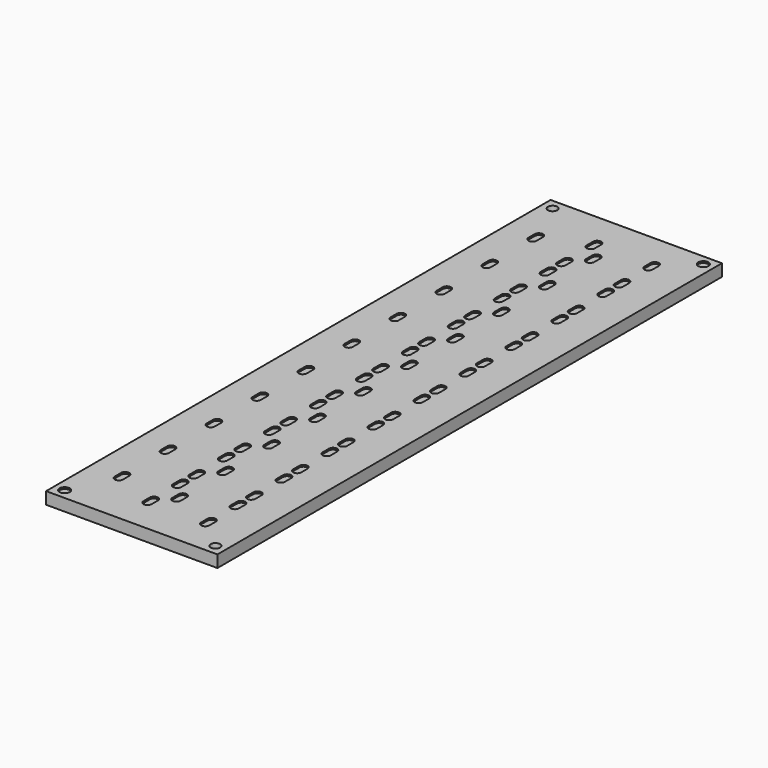
from build123d import *

# Parameters (mm, degrees)
F0_W     = 49.8404
F0_H     = 183.4444
F0_R     = 1.5
F0_R_2   = 1.375
F1_DEPTH = 0.5
F2_W     = 49.8404
F2_H     = 183.4444
F2_R     = 1.375
F3_DEPTH = 3


with BuildPart() as f1:
    # F0 (on Top) → F1 (new body)
    with BuildSketch(Plane.XY):
        with Locations((21.9202, 88.7222)):
            Rectangle(F0_W, F0_H)
        Circle(F0_R, mode=Mode.SUBTRACT)
        with BuildLine():
            ThreePointArc((7.066025, 12.3623), (5.8754, 11.171675), (4.684775, 12.3623))
            Line((4.684775, 12.3623), (4.684775, 14.6623))
            ThreePointArc((4.684775, 14.6623), (5.8754, 15.852925), (7.066025, 14.6623))
            Line((7.066025, 14.6623), (7.066025, 12.3623))
        make_face(mode=Mode.SUBTRACT)
        with BuildLine():
            Line((7.066025, 31.3756), (7.066025, 29.0756))
            ThreePointArc((7.066025, 29.0756), (5.8754, 27.884975), (4.684775, 29.0756))
            Line((4.684775, 29.0756), (4.684775, 31.3756))
            ThreePointArc((4.684775, 31.3756), (5.8754, 32.566225), (7.066025, 31.3756))
        make_face(mode=Mode.SUBTRACT)
        with BuildLine():
            Line((19.732625, 9.2855), (19.732625, 6.9855))
            ThreePointArc((19.732625, 6.9855), (18.542, 5.794875), (17.351375, 6.9855))
            Line((17.351375, 6.9855), (17.351375, 9.2855))
            ThreePointArc((17.351375, 9.2855), (18.542, 10.476125), (19.732625, 9.2855))
        make_face(mode=Mode.SUBTRACT)
        with BuildLine():
            Line((19.732625, 20.0391), (19.732625, 17.7391))
            ThreePointArc((19.732625, 17.7391), (18.542, 16.548475), (17.351375, 17.7391))
            Line((17.351375, 17.7391), (17.351375, 20.0391))
            ThreePointArc((17.351375, 20.0391), (18.542, 21.229725), (19.732625, 20.0391))
        make_face(mode=Mode.SUBTRACT)
        with BuildLine():
            ThreePointArc((19.732625, 23.6988), (18.542, 22.508175), (17.351375, 23.6988))
            Line((17.351375, 23.6988), (17.351375, 25.9988))
            ThreePointArc((17.351375, 25.9988), (18.542, 27.189425), (19.732625, 25.9988))
            Line((19.732625, 25.9988), (19.732625, 23.6988))
        make_face(mode=Mode.SUBTRACT)
        with BuildLine():
            Line((19.732625, 36.7524), (19.732625, 34.4524))
            ThreePointArc((19.732625, 34.4524), (18.542, 33.261775), (17.351375, 34.4524))
            Line((17.351375, 34.4524), (17.351375, 36.7524))
            ThreePointArc((17.351375, 36.7524), (18.542, 37.943025), (19.732625, 36.7524))
        make_face(mode=Mode.SUBTRACT)
        with BuildLine():
            ThreePointArc((19.732625, 40.4121), (18.542, 39.221475), (17.351375, 40.4121))
            Line((17.351375, 40.4121), (17.351375, 42.7121))
            ThreePointArc((17.351375, 42.7121), (18.542, 43.902725), (19.732625, 42.7121))
            Line((19.732625, 42.7121), (19.732625, 40.4121))
        make_face(mode=Mode.SUBTRACT)
        with BuildLine():
            ThreePointArc((7.066025, 45.7889), (5.8754, 44.598275), (4.684775, 45.7889))
            Line((4.684775, 45.7889), (4.684775, 48.0889))
            ThreePointArc((4.684775, 48.0889), (5.8754, 49.279525), (7.066025, 48.0889))
            Line((7.066025, 48.0889), (7.066025, 45.7889))
        make_face(mode=Mode.SUBTRACT)
        with BuildLine():
            ThreePointArc((4.684775, 64.8022), (5.8754, 65.992825), (7.066025, 64.8022))
            Line((7.066025, 64.8022), (7.066025, 62.5022))
            ThreePointArc((7.066025, 62.5022), (5.8754, 61.311575), (4.684775, 62.5022))
            Line((4.684775, 62.5022), (4.684775, 64.8022))
        make_face(mode=Mode.SUBTRACT)
        with BuildLine():
            ThreePointArc((7.066025, 79.2155), (5.8754, 78.024875), (4.684775, 79.2155))
            Line((4.684775, 79.2155), (4.684775, 81.5155))
            ThreePointArc((4.684775, 81.5155), (5.8754, 82.706125), (7.066025, 81.5155))
            Line((7.066025, 81.5155), (7.066025, 79.2155))
        make_face(mode=Mode.SUBTRACT)
        with BuildLine():
            ThreePointArc((17.351375, 53.4657), (18.542, 54.656325), (19.732625, 53.4657))
            Line((19.732625, 53.4657), (19.732625, 51.1657))
            ThreePointArc((19.732625, 51.1657), (18.542, 49.975075), (17.351375, 51.1657))
            Line((17.351375, 51.1657), (17.351375, 53.4657))
        make_face(mode=Mode.SUBTRACT)
        with BuildLine():
            ThreePointArc((17.351375, 59.4254), (18.542, 60.616025), (19.732625, 59.4254))
            Line((19.732625, 59.4254), (19.732625, 57.1254))
            ThreePointArc((19.732625, 57.1254), (18.542, 55.934775), (17.351375, 57.1254))
            Line((17.351375, 57.1254), (17.351375, 59.4254))
        make_face(mode=Mode.SUBTRACT)
        with BuildLine():
            ThreePointArc((17.351375, 70.179), (18.542, 71.369625), (19.732625, 70.179))
            Line((19.732625, 70.179), (19.732625, 67.879))
            ThreePointArc((19.732625, 67.879), (18.542, 66.688375), (17.351375, 67.879))
            Line((17.351375, 67.879), (17.351375, 70.179))
        make_face(mode=Mode.SUBTRACT)
        with BuildLine():
            ThreePointArc((19.732625, 73.8387), (18.542, 72.648075), (17.351375, 73.8387))
            Line((17.351375, 73.8387), (17.351375, 76.1387))
            ThreePointArc((17.351375, 76.1387), (18.542, 77.329325), (19.732625, 76.1387))
            Line((19.732625, 76.1387), (19.732625, 73.8387))
        make_face(mode=Mode.SUBTRACT)
        with BuildLine():
            ThreePointArc((19.732625, 84.5923), (18.542, 83.401675), (17.351375, 84.5923))
            Line((17.351375, 84.5923), (17.351375, 86.8923))
            ThreePointArc((17.351375, 86.8923), (18.542, 88.082925), (19.732625, 86.8923))
            Line((19.732625, 86.8923), (19.732625, 84.5923))
        make_face(mode=Mode.SUBTRACT)
        with BuildLine():
            ThreePointArc((23.830025, 12.3623), (22.6394, 11.171675), (21.448775, 12.3623))
            Line((21.448775, 12.3623), (21.448775, 14.6623))
            ThreePointArc((21.448775, 14.6623), (22.6394, 15.852925), (23.830025, 14.6623))
            Line((23.830025, 14.6623), (23.830025, 12.3623))
        make_face(mode=Mode.SUBTRACT)
        with BuildLine():
            Line((23.830025, 31.3756), (23.830025, 29.0756))
            ThreePointArc((23.830025, 29.0756), (22.6394, 27.884975), (21.448775, 29.0756))
            Line((21.448775, 29.0756), (21.448775, 31.3756))
            ThreePointArc((21.448775, 31.3756), (22.6394, 32.566225), (23.830025, 31.3756))
        make_face(mode=Mode.SUBTRACT)
        with BuildLine():
            Line((36.496625, 9.2855), (36.496625, 6.9855))
            ThreePointArc((36.496625, 6.9855), (35.306, 5.794875), (34.115375, 6.9855))
            Line((34.115375, 6.9855), (34.115375, 9.2855))
            ThreePointArc((34.115375, 9.2855), (35.306, 10.476125), (36.496625, 9.2855))
        make_face(mode=Mode.SUBTRACT)
        with BuildLine():
            Line((36.496625, 20.0391), (36.496625, 17.7391))
            ThreePointArc((36.496625, 17.7391), (35.306, 16.548475), (34.115375, 17.7391))
            Line((34.115375, 17.7391), (34.115375, 20.0391))
            ThreePointArc((34.115375, 20.0391), (35.306, 21.229725), (36.496625, 20.0391))
        make_face(mode=Mode.SUBTRACT)
        with Locations((43.8404, 0)):
            Circle(F0_R_2, mode=Mode.SUBTRACT)
        with BuildLine():
            Line((36.496625, 25.9988), (36.496625, 23.6988))
            ThreePointArc((36.496625, 23.6988), (35.306, 22.508175), (34.115375, 23.6988))
            Line((34.115375, 23.6988), (34.115375, 25.9988))
            ThreePointArc((34.115375, 25.9988), (35.306, 27.189425), (36.496625, 25.9988))
        make_face(mode=Mode.SUBTRACT)
        with BuildLine():
            ThreePointArc((36.496625, 34.4524), (35.306, 33.261775), (34.115375, 34.4524))
            Line((34.115375, 34.4524), (34.115375, 36.7524))
            ThreePointArc((34.115375, 36.7524), (35.306, 37.943025), (36.496625, 36.7524))
            Line((36.496625, 36.7524), (36.496625, 34.4524))
        make_face(mode=Mode.SUBTRACT)
        with BuildLine():
            ThreePointArc((34.115375, 42.7121), (35.306, 43.902725), (36.496625, 42.7121))
            Line((36.496625, 42.7121), (36.496625, 40.4121))
            ThreePointArc((36.496625, 40.4121), (35.306, 39.221475), (34.115375, 40.4121))
            Line((34.115375, 40.4121), (34.115375, 42.7121))
        make_face(mode=Mode.SUBTRACT)
        with BuildLine():
            ThreePointArc((21.448775, 48.0889), (22.6394, 49.279525), (23.830025, 48.0889))
            Line((23.830025, 48.0889), (23.830025, 45.7889))
            ThreePointArc((23.830025, 45.7889), (22.6394, 44.598275), (21.448775, 45.7889))
            Line((21.448775, 45.7889), (21.448775, 48.0889))
        make_face(mode=Mode.SUBTRACT)
        with BuildLine():
            ThreePointArc((21.448775, 64.8022), (22.6394, 65.992825), (23.830025, 64.8022))
            Line((23.830025, 64.8022), (23.830025, 62.5022))
            ThreePointArc((23.830025, 62.5022), (22.6394, 61.311575), (21.448775, 62.5022))
            Line((21.448775, 62.5022), (21.448775, 64.8022))
        make_face(mode=Mode.SUBTRACT)
        with BuildLine():
            ThreePointArc((21.448775, 81.5155), (22.6394, 82.706125), (23.830025, 81.5155))
            Line((23.830025, 81.5155), (23.830025, 79.2155))
            ThreePointArc((23.830025, 79.2155), (22.6394, 78.024875), (21.448775, 79.2155))
            Line((21.448775, 79.2155), (21.448775, 81.5155))
        make_face(mode=Mode.SUBTRACT)
        with BuildLine():
            ThreePointArc((34.115375, 53.4657), (35.306, 54.656325), (36.496625, 53.4657))
            Line((36.496625, 53.4657), (36.496625, 51.1657))
            ThreePointArc((36.496625, 51.1657), (35.306, 49.975075), (34.115375, 51.1657))
            Line((34.115375, 51.1657), (34.115375, 53.4657))
        make_face(mode=Mode.SUBTRACT)
        with BuildLine():
            ThreePointArc((34.115375, 59.4254), (35.306, 60.616025), (36.496625, 59.4254))
            Line((36.496625, 59.4254), (36.496625, 57.1254))
            ThreePointArc((36.496625, 57.1254), (35.306, 55.934775), (34.115375, 57.1254))
            Line((34.115375, 57.1254), (34.115375, 59.4254))
        make_face(mode=Mode.SUBTRACT)
        with BuildLine():
            Line((36.496625, 70.179), (36.496625, 67.879))
            ThreePointArc((36.496625, 67.879), (35.306, 66.688375), (34.115375, 67.879))
            Line((34.115375, 67.879), (34.115375, 70.179))
            ThreePointArc((34.115375, 70.179), (35.306, 71.369625), (36.496625, 70.179))
        make_face(mode=Mode.SUBTRACT)
        with BuildLine():
            ThreePointArc((34.115375, 76.1387), (35.306, 77.329325), (36.496625, 76.1387))
            Line((36.496625, 76.1387), (36.496625, 73.8387))
            ThreePointArc((36.496625, 73.8387), (35.306, 72.648075), (34.115375, 73.8387))
            Line((34.115375, 73.8387), (34.115375, 76.1387))
        make_face(mode=Mode.SUBTRACT)
        with BuildLine():
            ThreePointArc((36.496625, 84.5923), (35.306, 83.401675), (34.115375, 84.5923))
            Line((34.115375, 84.5923), (34.115375, 86.8923))
            ThreePointArc((34.115375, 86.8923), (35.306, 88.082925), (36.496625, 86.8923))
            Line((36.496625, 86.8923), (36.496625, 84.5923))
        make_face(mode=Mode.SUBTRACT)
        with BuildLine():
            ThreePointArc((4.684775, 98.2288), (5.8754, 99.419425), (7.066025, 98.2288))
            Line((7.066025, 98.2288), (7.066025, 95.9288))
            ThreePointArc((7.066025, 95.9288), (5.8754, 94.738175), (4.684775, 95.9288))
            Line((4.684775, 95.9288), (4.684775, 98.2288))
        make_face(mode=Mode.SUBTRACT)
        with BuildLine():
            ThreePointArc((7.066025, 112.6421), (5.8754, 111.451475), (4.684775, 112.6421))
            Line((4.684775, 112.6421), (4.684775, 114.9421))
            ThreePointArc((4.684775, 114.9421), (5.8754, 116.132725), (7.066025, 114.9421))
            Line((7.066025, 114.9421), (7.066025, 112.6421))
        make_face(mode=Mode.SUBTRACT)
        with BuildLine():
            ThreePointArc((4.684775, 131.6554), (5.8754, 132.846025), (7.066025, 131.6554))
            Line((7.066025, 131.6554), (7.066025, 129.3554))
            ThreePointArc((7.066025, 129.3554), (5.8754, 128.164775), (4.684775, 129.3554))
            Line((4.684775, 129.3554), (4.684775, 131.6554))
        make_face(mode=Mode.SUBTRACT)
        with BuildLine():
            ThreePointArc((17.351375, 92.852), (18.542, 94.042625), (19.732625, 92.852))
            Line((19.732625, 92.852), (19.732625, 90.552))
            ThreePointArc((19.732625, 90.552), (18.542, 89.361375), (17.351375, 90.552))
            Line((17.351375, 90.552), (17.351375, 92.852))
        make_face(mode=Mode.SUBTRACT)
        with BuildLine():
            Line((19.732625, 103.6056), (19.732625, 101.3056))
            ThreePointArc((19.732625, 101.3056), (18.542, 100.114975), (17.351375, 101.3056))
            Line((17.351375, 101.3056), (17.351375, 103.6056))
            ThreePointArc((17.351375, 103.6056), (18.542, 104.796225), (19.732625, 103.6056))
        make_face(mode=Mode.SUBTRACT)
        with BuildLine():
            ThreePointArc((19.732625, 107.2653), (18.542, 106.074675), (17.351375, 107.2653))
            Line((17.351375, 107.2653), (17.351375, 109.5653))
            ThreePointArc((17.351375, 109.5653), (18.542, 110.755925), (19.732625, 109.5653))
            Line((19.732625, 109.5653), (19.732625, 107.2653))
        make_face(mode=Mode.SUBTRACT)
        with BuildLine():
            ThreePointArc((19.732625, 118.0189), (18.542, 116.828275), (17.351375, 118.0189))
            Line((17.351375, 118.0189), (17.351375, 120.3189))
            ThreePointArc((17.351375, 120.3189), (18.542, 121.509525), (19.732625, 120.3189))
            Line((19.732625, 120.3189), (19.732625, 118.0189))
        make_face(mode=Mode.SUBTRACT)
        with BuildLine():
            ThreePointArc((17.351375, 126.2786), (18.542, 127.469225), (19.732625, 126.2786))
            Line((19.732625, 126.2786), (19.732625, 123.9786))
            ThreePointArc((19.732625, 123.9786), (18.542, 122.787975), (17.351375, 123.9786))
            Line((17.351375, 123.9786), (17.351375, 126.2786))
        make_face(mode=Mode.SUBTRACT)
        with BuildLine():
            ThreePointArc((7.066025, 146.0687), (5.8754, 144.878075), (4.684775, 146.0687))
            Line((4.684775, 146.0687), (4.684775, 148.3687))
            ThreePointArc((4.684775, 148.3687), (5.8754, 149.559325), (7.066025, 148.3687))
            Line((7.066025, 148.3687), (7.066025, 146.0687))
        make_face(mode=Mode.SUBTRACT)
        with Locations((0, 177.4444)):
            Circle(F0_R_2, mode=Mode.SUBTRACT)
        with BuildLine():
            ThreePointArc((4.684775, 165.082), (5.8754, 166.272625), (7.066025, 165.082))
            Line((7.066025, 165.082), (7.066025, 162.782))
            ThreePointArc((7.066025, 162.782), (5.8754, 161.591375), (4.684775, 162.782))
            Line((4.684775, 162.782), (4.684775, 165.082))
        make_face(mode=Mode.SUBTRACT)
        with BuildLine():
            ThreePointArc((17.351375, 137.0322), (18.542, 138.222825), (19.732625, 137.0322))
            Line((19.732625, 137.0322), (19.732625, 134.7322))
            ThreePointArc((19.732625, 134.7322), (18.542, 133.541575), (17.351375, 134.7322))
            Line((17.351375, 134.7322), (17.351375, 137.0322))
        make_face(mode=Mode.SUBTRACT)
        with BuildLine():
            ThreePointArc((17.351375, 142.9919), (18.542, 144.182525), (19.732625, 142.9919))
            Line((19.732625, 142.9919), (19.732625, 140.6919))
            ThreePointArc((19.732625, 140.6919), (18.542, 139.501275), (17.351375, 140.6919))
            Line((17.351375, 140.6919), (17.351375, 142.9919))
        make_face(mode=Mode.SUBTRACT)
        with BuildLine():
            ThreePointArc((17.351375, 153.7455), (18.542, 154.936125), (19.732625, 153.7455))
            Line((19.732625, 153.7455), (19.732625, 151.4455))
            ThreePointArc((19.732625, 151.4455), (18.542, 150.254875), (17.351375, 151.4455))
            Line((17.351375, 151.4455), (17.351375, 153.7455))
        make_face(mode=Mode.SUBTRACT)
        with BuildLine():
            ThreePointArc((19.732625, 157.4052), (18.542, 156.214575), (17.351375, 157.4052))
            Line((17.351375, 157.4052), (17.351375, 159.7052))
            ThreePointArc((17.351375, 159.7052), (18.542, 160.895825), (19.732625, 159.7052))
            Line((19.732625, 159.7052), (19.732625, 157.4052))
        make_face(mode=Mode.SUBTRACT)
        with BuildLine():
            ThreePointArc((17.351375, 170.4588), (18.542, 171.649425), (19.732625, 170.458801))
            Line((19.732625, 170.458801), (19.732625, 168.158801))
            ThreePointArc((19.732625, 168.158801), (18.542, 166.968175), (17.351375, 168.1588))
            Line((17.351375, 168.1588), (17.351375, 170.4588))
        make_face(mode=Mode.SUBTRACT)
        with BuildLine():
            ThreePointArc((23.830025, 95.9288), (22.6394, 94.738175), (21.448775, 95.9288))
            Line((21.448775, 95.9288), (21.448775, 98.2288))
            ThreePointArc((21.448775, 98.2288), (22.6394, 99.419425), (23.830025, 98.2288))
            Line((23.830025, 98.2288), (23.830025, 95.9288))
        make_face(mode=Mode.SUBTRACT)
        with BuildLine():
            ThreePointArc((21.448775, 114.9421), (22.6394, 116.132725), (23.830025, 114.9421))
            Line((23.830025, 114.9421), (23.830025, 112.6421))
            ThreePointArc((23.830025, 112.6421), (22.6394, 111.451475), (21.448775, 112.6421))
            Line((21.448775, 112.6421), (21.448775, 114.9421))
        make_face(mode=Mode.SUBTRACT)
        with BuildLine():
            ThreePointArc((21.448775, 131.6554), (22.6394, 132.846025), (23.830025, 131.6554))
            Line((23.830025, 131.6554), (23.830025, 129.3554))
            ThreePointArc((23.830025, 129.3554), (22.6394, 128.164775), (21.448775, 129.3554))
            Line((21.448775, 129.3554), (21.448775, 131.6554))
        make_face(mode=Mode.SUBTRACT)
        with BuildLine():
            ThreePointArc((34.115375, 92.852), (35.306, 94.042625), (36.496625, 92.852))
            Line((36.496625, 92.852), (36.496625, 90.552))
            ThreePointArc((36.496625, 90.552), (35.306, 89.361375), (34.115375, 90.552))
            Line((34.115375, 90.552), (34.115375, 92.852))
        make_face(mode=Mode.SUBTRACT)
        with BuildLine():
            ThreePointArc((34.115375, 103.6056), (35.306, 104.796225), (36.496625, 103.6056))
            Line((36.496625, 103.6056), (36.496625, 101.3056))
            ThreePointArc((36.496625, 101.3056), (35.306, 100.114975), (34.115375, 101.3056))
            Line((34.115375, 101.3056), (34.115375, 103.6056))
        make_face(mode=Mode.SUBTRACT)
        with BuildLine():
            ThreePointArc((34.115375, 109.5653), (35.306, 110.755925), (36.496625, 109.5653))
            Line((36.496625, 109.5653), (36.496625, 107.2653))
            ThreePointArc((36.496625, 107.2653), (35.306, 106.074675), (34.115375, 107.2653))
            Line((34.115375, 107.2653), (34.115375, 109.5653))
        make_face(mode=Mode.SUBTRACT)
        with BuildLine():
            ThreePointArc((36.496625, 118.018899), (35.306, 116.828275), (34.115375, 118.0189))
            Line((34.115375, 118.0189), (34.115375, 120.3189))
            ThreePointArc((34.115375, 120.3189), (35.306, 121.509525), (36.496625, 120.318899))
            Line((36.496625, 120.318899), (36.496625, 118.018899))
        make_face(mode=Mode.SUBTRACT)
        with BuildLine():
            ThreePointArc((34.115375, 126.2786), (35.306, 127.469225), (36.496625, 126.2786))
            Line((36.496625, 126.2786), (36.496625, 123.9786))
            ThreePointArc((36.496625, 123.9786), (35.306, 122.787975), (34.115375, 123.9786))
            Line((34.115375, 123.9786), (34.115375, 126.2786))
        make_face(mode=Mode.SUBTRACT)
        with BuildLine():
            ThreePointArc((23.830025, 146.0687), (22.6394, 144.878075), (21.448775, 146.0687))
            Line((21.448775, 146.0687), (21.448775, 148.3687))
            ThreePointArc((21.448775, 148.3687), (22.6394, 149.559325), (23.830025, 148.3687))
            Line((23.830025, 148.3687), (23.830025, 146.0687))
        make_face(mode=Mode.SUBTRACT)
        with BuildLine():
            ThreePointArc((23.830025, 162.782001), (22.639401, 161.591374), (21.448775, 162.781999))
            Line((21.448775, 162.781999), (21.448775, 165.081999))
            ThreePointArc((21.448775, 165.081999), (22.639399, 166.272625), (23.830025, 165.082001))
            Line((23.830025, 165.082001), (23.830025, 162.782001))
        make_face(mode=Mode.SUBTRACT)
        with BuildLine():
            ThreePointArc((36.496625, 134.7322), (35.306, 133.541575), (34.115375, 134.7322))
            Line((34.115375, 134.7322), (34.115375, 137.0322))
            ThreePointArc((34.115375, 137.0322), (35.306, 138.222825), (36.496625, 137.0322))
            Line((36.496625, 137.0322), (36.496625, 134.7322))
        make_face(mode=Mode.SUBTRACT)
        with BuildLine():
            ThreePointArc((34.115375, 142.9919), (35.306, 144.182525), (36.496625, 142.9919))
            Line((36.496625, 142.9919), (36.496625, 140.6919))
            ThreePointArc((36.496625, 140.6919), (35.306, 139.501275), (34.115375, 140.6919))
            Line((34.115375, 140.6919), (34.115375, 142.9919))
        make_face(mode=Mode.SUBTRACT)
        with BuildLine():
            ThreePointArc((36.496625, 151.4455), (35.306, 150.254875), (34.115375, 151.4455))
            Line((34.115375, 151.4455), (34.115375, 153.7455))
            ThreePointArc((34.115375, 153.7455), (35.306, 154.936125), (36.496625, 153.7455))
            Line((36.496625, 153.7455), (36.496625, 151.4455))
        make_face(mode=Mode.SUBTRACT)
        with BuildLine():
            ThreePointArc((34.115375, 159.705201), (35.306001, 160.895825), (36.496625, 159.705199))
            Line((36.496625, 159.705199), (36.496625, 157.405199))
            ThreePointArc((36.496625, 157.405199), (35.305999, 156.214576), (34.115375, 157.405201))
            Line((34.115375, 157.405201), (34.115375, 159.705201))
        make_face(mode=Mode.SUBTRACT)
        with BuildLine():
            ThreePointArc((36.496625, 168.1588), (35.306, 166.968175), (34.115375, 168.1588))
            Line((34.115375, 168.1588), (34.115375, 170.4588))
            ThreePointArc((34.115375, 170.4588), (35.306, 171.649425), (36.496625, 170.4588))
            Line((36.496625, 170.4588), (36.496625, 168.1588))
        make_face(mode=Mode.SUBTRACT)
        with Locations((43.8404, 177.4444)):
            Circle(F0_R, mode=Mode.SUBTRACT)
    extrude(amount=F1_DEPTH)

    # F2 (on face) → F3 (join)
    with BuildSketch(Plane(origin=(0, 0, 0), x_dir=(1, 0, 0), z_dir=(0, 0, -1))):
        with Locations((21.9202, -88.7222)):
            Rectangle(F2_W, F2_H)
        with Locations((0, -177.4444)):
            Circle(F2_R, mode=Mode.SUBTRACT)
        with Locations((43.8404, 0)):
            Circle(F2_R, mode=Mode.SUBTRACT)
    extrude(amount=F3_DEPTH)


solid = f1.part
